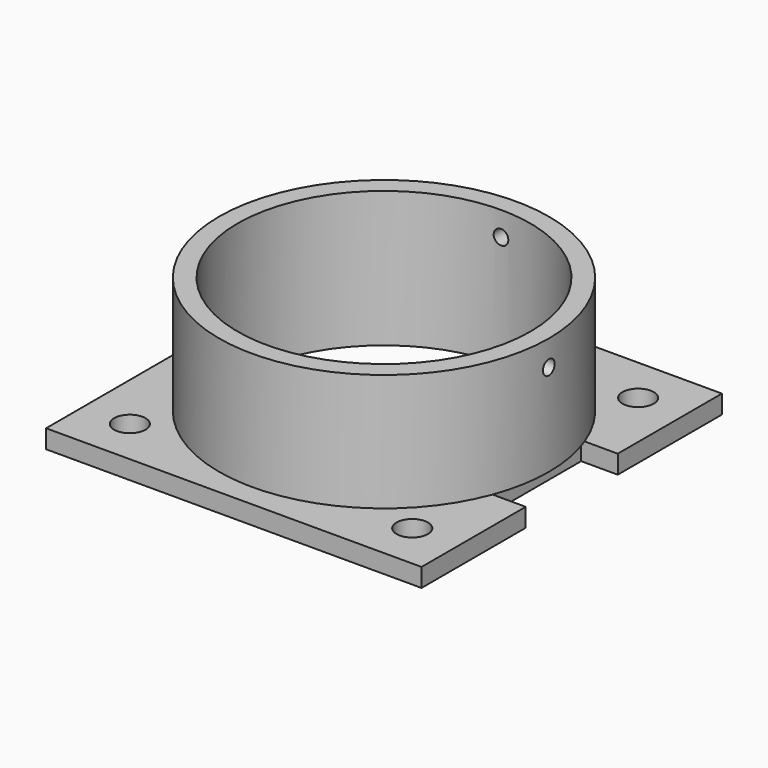
from build123d import *

# Parameters (mm, degrees)
BOX001_W                    = 3.5
BOX001_H                    = 11
BOX001_DEPTH                = 1.77
CYLINDER002_R               = 0.7
CYLINDER002_DEPTH           = 10
CYLINDER002_PLACEMENT_ANGLE = 92
CYLINDER007_R               = 0.7
CYLINDER007_DEPTH           = 10
CYLINDER007_ROLL_ANGLE      = 90
CYLINDER_R                  = 14
CYLINDER_DEPTH              = 13
THICKNESS_T                 = 1.77
CYLINDER003_R               = 1.5
CYLINDER003_DEPTH           = 10
CYLINDER004_R               = 1.5
CYLINDER004_DEPTH           = 10
CYLINDER005_R               = 1.5
CYLINDER005_DEPTH           = 10
CYLINDER006_R               = 1.5
CYLINDER006_DEPTH           = 10
CYLINDER001_R               = 14
CYLINDER001_DEPTH           = 10
BOX_W                       = 35.9
BOX_H                       = 35.9
BOX_DEPTH                   = 1.77


with BuildPart() as cube001:
    # Box001 → Box001 (new body)
    with BuildSketch(Plane(origin=(14.45, -5.5, 0), x_dir=(1, 0, 0), z_dir=(0, 0, 1))):
        with Locations((1.75, 5.5)):
            Rectangle(BOX001_W, BOX001_H)
    extrude(amount=BOX001_DEPTH)


with BuildPart() as cylinder002:
    # Cylinder002 → Cylinder002 (new body)
    with BuildSketch(Plane.XY):
        Circle(CYLINDER002_R)
    extrude(amount=CYLINDER002_DEPTH)


with BuildPart() as cylinder002_1:
    # Cylinder002 placement: moved
    add(cylinder002.part.moved(Location((12, 0, 10.7))).rotate(Axis((12, 0, 10.7), (0, 1, 0)), CYLINDER002_PLACEMENT_ANGLE))


with BuildPart() as cylinder007:
    # Cylinder007 → Cylinder007 (new body)
    with BuildSketch(Plane.XY):
        Circle(CYLINDER007_R)
    extrude(amount=CYLINDER007_DEPTH)


with BuildPart() as cylinder007_1:
    # Cylinder007 roll: moved
    add(cylinder007.part.rotate(Axis((0, 0, 0), (1, 0, 0)), CYLINDER007_ROLL_ANGLE))


with BuildPart() as cylinder007_2:
    # Cylinder007 placement: moved
    add(cylinder007_1.part.moved(Location((0, 21, 10.7))))


with BuildPart() as lens_conduit:
    # Cylinder → Cylinder (new body)
    with BuildSketch(Plane.XY):
        Circle(CYLINDER_R)
    extrude(amount=CYLINDER_DEPTH)

    # Thickness
    thickness_openings = [lens_conduit.faces().sort_by_distance(p)[0] for p in [
        (0, 0, 13),
        (0, 0, 0),
    ]]
    offset(amount=THICKNESS_T, openings=thickness_openings)

    # Cut005: cut Cylinder007
    add(cylinder007_2.part, mode=Mode.SUBTRACT)

    # Cut006: cut Cylinder002
    add(cylinder002_1.part, mode=Mode.SUBTRACT)

    # Cut008: cut Cube001
    add(cube001.part, mode=Mode.SUBTRACT)


with BuildPart() as cylinder003:
    # Cylinder003 → Cylinder003 (new body)
    with BuildSketch(Plane(origin=(13.5, 13.5, -2), x_dir=(1, 0, 0), z_dir=(0, 0, 1))):
        Circle(CYLINDER003_R)
    extrude(amount=CYLINDER003_DEPTH)


with BuildPart() as cylinder004:
    # Cylinder004 → Cylinder004 (new body)
    with BuildSketch(Plane(origin=(13.5, -13.5, -2), x_dir=(1, 0, 0), z_dir=(0, 0, 1))):
        Circle(CYLINDER004_R)
    extrude(amount=CYLINDER004_DEPTH)


with BuildPart() as cylinder005:
    # Cylinder005 → Cylinder005 (new body)
    with BuildSketch(Plane(origin=(-13.5, 13.5, -2), x_dir=(1, 0, 0), z_dir=(0, 0, 1))):
        Circle(CYLINDER005_R)
    extrude(amount=CYLINDER005_DEPTH)


with BuildPart() as cylinder006:
    # Cylinder006 → Cylinder006 (new body)
    with BuildSketch(Plane(origin=(-13.5, -13.5, -2), x_dir=(1, 0, 0), z_dir=(0, 0, 1))):
        Circle(CYLINDER006_R)
    extrude(amount=CYLINDER006_DEPTH)


with BuildPart() as cylinder001:
    # Cylinder001 → Cylinder001 (new body)
    with BuildSketch(Plane.XY.offset(-3)):
        Circle(CYLINDER001_R)
    extrude(amount=CYLINDER001_DEPTH)


with BuildPart() as fusion:
    # Box → Box (new body)
    with BuildSketch(Plane(origin=(-17.95, -17.95, 0), x_dir=(1, 0, 0), z_dir=(0, 0, 1))):
        with Locations((17.95, 17.95)):
            Rectangle(BOX_W, BOX_H)
    extrude(amount=BOX_DEPTH)

    # Cut: cut Cylinder001
    add(cylinder001.part, mode=Mode.SUBTRACT)

    # Cut001: cut Cylinder006
    add(cylinder006.part, mode=Mode.SUBTRACT)

    # Cut002: cut Cylinder005
    add(cylinder005.part, mode=Mode.SUBTRACT)

    # Cut003: cut Cylinder004
    add(cylinder004.part, mode=Mode.SUBTRACT)

    # Cut004: cut Cylinder003
    add(cylinder003.part, mode=Mode.SUBTRACT)

    # Cut007: cut Cube001
    add(cube001.part, mode=Mode.SUBTRACT)

    # Fusion: union lens_conduit
    add(lens_conduit.part)


solid = fusion.part
